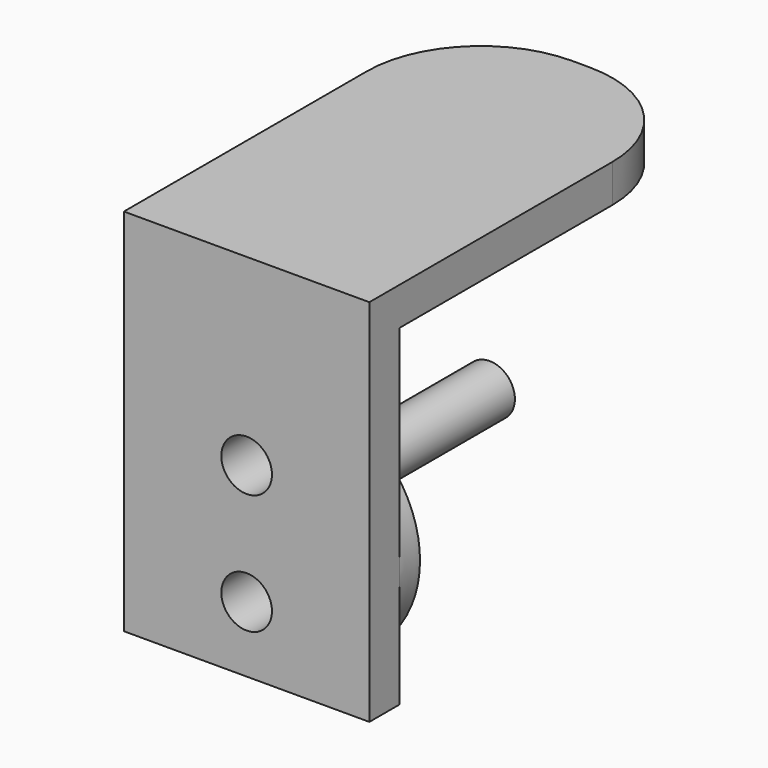
from build123d import *

# Parameters (mm, degrees)
F0_W     = 19.4
F0_H     = 3
F1_DEPTH = 30
F0_R     = 2
F2_DEPTH = 3
F3_DEPTH = 2
F4_DEPTH = 21
F5_R     = 9


with BuildPart() as f1:
    # F0 (on Front) → F1 (new body)
    with BuildSketch(Plane.XZ):
        with Locations((0, 18.5)):
            Rectangle(F0_W, F0_H)
    extrude(amount=-F1_DEPTH)

    # F0 (on Front) → F2 (join)
    with BuildSketch(Plane.XZ):
        with BuildLine():
            add(Edge.make_bspline(
                [(9.7, 0), (9.7, 9.1999999828), (1.82e-08, 9.2), (-9.6999999637, 9.2000000172), (-9.7, 3.44e-08)],
                knots=[0, 0, 0, 1.5707963249, 1.5707963249, 3.1415926498, 3.1415926498, 3.1415926498], degree=2, weights=[1, 0.7071067818, 1, 0.7071067818, 1]))
            Line((9.7, 0), (9.7, 17))
            Line((9.7, 17), (-9.7, 17))
            Line((-9.7, 17), (-9.7, 3.44e-08))
        make_face()
        with Locations((0, 18.5)):
            Rectangle(F0_W, F0_H)
        with BuildLine():
            Line((9.7, -9.2), (9.7, 0))
            add(Edge.make_bspline(
                [(0, -9.2), (9.7, -9.2), (9.7, 0)],
                knots=[4.7123889804, 4.7123889804, 4.7123889804, 6.2831853072, 6.2831853072, 6.2831853072], degree=2, weights=[1, 0.7071067812, 1]))
            Line((0, -9.2), (9.7, -9.2))
        make_face()
        with BuildLine():
            add(Edge.make_bspline(
                [(-9.7, 3.44e-08), (-9.7000000363, -9.2), (0, -9.2)],
                knots=[3.1415926498, 3.1415926498, 3.1415926498, 4.7123889804, 4.7123889804, 4.7123889804], degree=2, weights=[1, 0.7071067799, 1]))
            Line((-9.7, 3.44e-08), (-9.7, -9.2))
            Line((-9.7, -9.2), (0, -9.2))
        make_face()
        with BuildLine():
            add(Edge.make_bspline(
                [(0, -9.2), (9.7, -9.2), (9.7, 0)],
                knots=[4.7123889804, 4.7123889804, 4.7123889804, 6.2831853072, 6.2831853072, 6.2831853072], degree=2, weights=[1, 0.7071067812, 1]))
            add(Edge.make_bspline(
                [(9.7, 0), (9.7, 9.1999999828), (1.82e-08, 9.2), (-9.6999999637, 9.2000000172), (-9.7, 3.44e-08)],
                knots=[0, 0, 0, 1.5707963249, 1.5707963249, 3.1415926498, 3.1415926498, 3.1415926498], degree=2, weights=[1, 0.7071067818, 1, 0.7071067818, 1]))
            add(Edge.make_bspline(
                [(-9.7, 3.44e-08), (-9.7000000363, -9.2), (0, -9.2)],
                knots=[3.1415926498, 3.1415926498, 3.1415926498, 4.7123889804, 4.7123889804, 4.7123889804], degree=2, weights=[1, 0.7071067799, 1]))
        make_face()
        with Locations((0, -4)):
            Circle(F0_R, mode=Mode.SUBTRACT)
        with Locations((0, 1)):
            Circle(F0_R, mode=Mode.SUBTRACT)
        with Locations((0, 5.5)):
            Circle(F0_R, mode=Mode.SUBTRACT)
        with Locations((0, 1)):
            Circle(F0_R)
    extrude(amount=F2_DEPTH)

    # F0 (on Front) → F3 (join)
    with BuildSketch(Plane.XZ):
        with BuildLine():
            add(Edge.make_bspline(
                [(0, -9.2), (9.7, -9.2), (9.7, 0)],
                knots=[4.7123889804, 4.7123889804, 4.7123889804, 6.2831853072, 6.2831853072, 6.2831853072], degree=2, weights=[1, 0.7071067812, 1]))
            add(Edge.make_bspline(
                [(9.7, 0), (9.7, 9.1999999828), (1.82e-08, 9.2), (-9.6999999637, 9.2000000172), (-9.7, 3.44e-08)],
                knots=[0, 0, 0, 1.5707963249, 1.5707963249, 3.1415926498, 3.1415926498, 3.1415926498], degree=2, weights=[1, 0.7071067818, 1, 0.7071067818, 1]))
            add(Edge.make_bspline(
                [(-9.7, 3.44e-08), (-9.7000000363, -9.2), (0, -9.2)],
                knots=[3.1415926498, 3.1415926498, 3.1415926498, 4.7123889804, 4.7123889804, 4.7123889804], degree=2, weights=[1, 0.7071067799, 1]))
        make_face()
        with Locations((0, -4)):
            Circle(F0_R, mode=Mode.SUBTRACT)
        with Locations((0, 1)):
            Circle(F0_R, mode=Mode.SUBTRACT)
        with Locations((0, 5.5)):
            Circle(F0_R, mode=Mode.SUBTRACT)
    extrude(amount=-F3_DEPTH)

    # F0 (on Front) → F4 (join)
    with BuildSketch(Plane.XZ):
        with Locations((0, 1)):
            Circle(F0_R)
    extrude(amount=-F4_DEPTH)

    # F5
    f5_edges = [f1.edges().sort_by_distance(p)[0] for p in [
        (-9.7, 30, 18.5),
        (9.7, 30, 18.5),
    ]]
    fillet(f5_edges, radius=F5_R)


solid = f1.part
